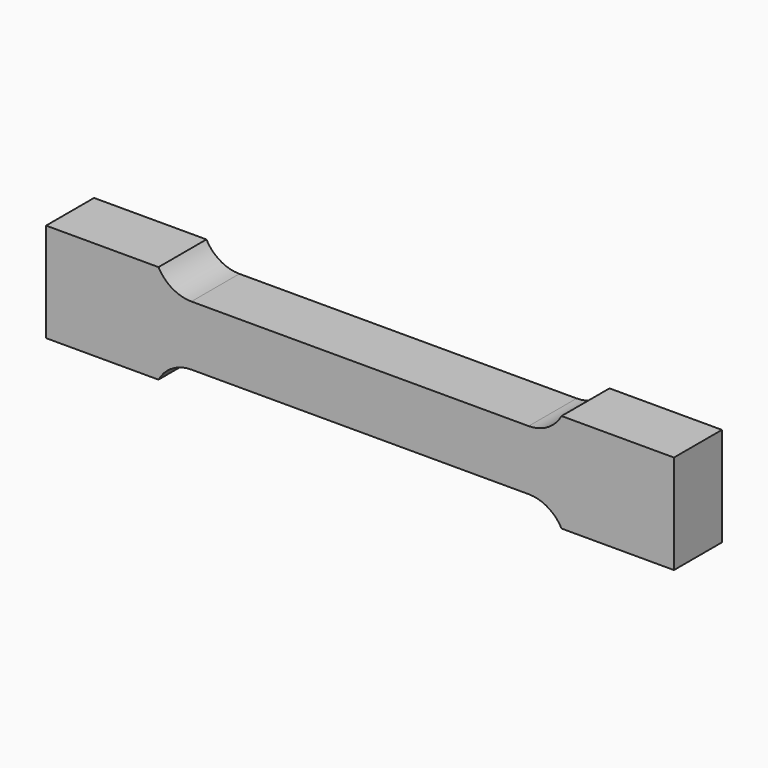
from build123d import *

# Parameters (mm, degrees)
F1_DEPTH = 20


with BuildPart() as f1:
    # F0 (on Front) → F1 (new body, symmetric)
    with BuildSketch(Plane.XZ):
        with BuildLine():
            Line((56.25, 20), (0, 20))
            Line((0, 20), (-56.25, 20))
            Line((-56.25, 20), (-112.5, 20))
            ThreePointArc((-112.5, 20), (-125.274699, 23.510303), (-134.461952, 33.055435))
            Line((-134.461952, 33.055435), (-209.461952, 33.055435))
            Line((-209.461952, 33.055435), (-209.461952, 0))
            Line((-209.461952, 0), (-209.461952, -33.055435))
            Line((-209.461952, -33.055435), (-134.461952, -33.055435))
            ThreePointArc((-134.461952, -33.055435), (-125.274699, -23.510303), (-112.5, -20))
            Line((-112.5, -20), (-56.25, -20))
            Line((-56.25, -20), (0, -20))
            Line((0, -20), (56.25, -20))
            Line((56.25, -20), (112.5, -20))
            ThreePointArc((112.5, -20), (125.274699, -23.510303), (134.461952, -33.055435))
            Line((134.461952, -33.055435), (209.461952, -33.055435))
            Line((209.461952, -33.055435), (209.461952, 0))
            Line((209.461952, 0), (209.461952, 33.055435))
            Line((209.461952, 33.055435), (134.461952, 33.055435))
            ThreePointArc((134.461952, 33.055435), (125.274699, 23.510303), (112.5, 20))
            Line((112.5, 20), (56.25, 20))
        make_face()
    extrude(amount=F1_DEPTH, both=True)


solid = f1.part
